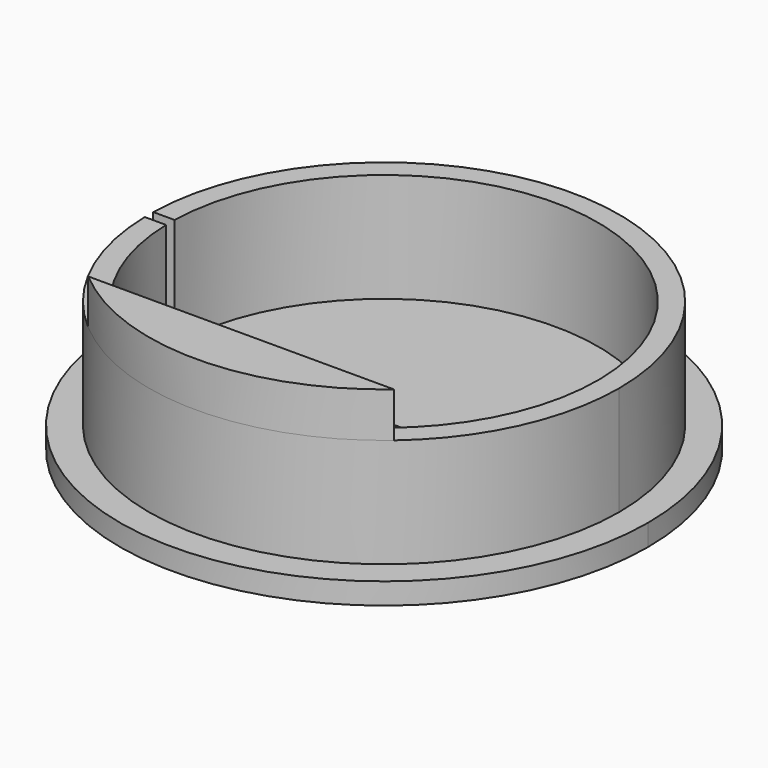
from build123d import *

# Parameters (mm, degrees)
F0_R     = 31.369
F1_DEPTH = 2.54
F2_R     = 27.94
F2_R_2   = 25.4
F3_DEPTH = 15.494
F5_DEPTH = 25.4
F7_DEPTH = 20.828


with BuildPart() as f1:
    # F0 (on Top) → F1 (new body)
    with BuildSketch(Plane.XY):
        Circle(F0_R)
    extrude(amount=F1_DEPTH)

    # F2 (on Top) → F3 (join)
    with BuildSketch(Plane.XY):
        Circle(F2_R)
        Circle(F2_R_2, mode=Mode.SUBTRACT)
    extrude(amount=F3_DEPTH)

    # F4 (on face) → F5 (cut)
    with BuildSketch(Plane.XY):
        with BuildLine():
            Line((0, -0.635), (0, 0))
            Line((0, 0), (0, 0.635))
            Line((0, 0.635), (-31.330898, 0.635))
            Line((-31.330898, 0.635), (-31.362572, 0.635))
            ThreePointArc((-31.362572, 0.635), (-31.369, -0.002537), (-31.362469, -0.640074))
            Line((-31.362469, -0.640074), (-31.013001, -0.635))
            Line((-31.013001, -0.635), (0, -0.635))
        make_face()
        with BuildLine():
            Line((-31.979989, -0.649039), (-31.362469, -0.640074))
            ThreePointArc((-31.362469, -0.640074), (-31.369, -0.002537), (-31.362572, 0.635))
            Line((-31.362572, 0.635), (-31.979989, 0.635))
            Line((-31.979989, 0.635), (-31.979989, -0.649039))
        make_face()
        Polygon((0, 0.635), (0, 0), (0, -0.635), (7.969206, -0.635), (7.969206, 0.635), (4.666724, 0.635), align=None)
    extrude(amount=F5_DEPTH, mode=Mode.SUBTRACT)

    # F6 (on Top) → F7 (join)
    with BuildSketch(Plane.XY):
        with BuildLine():
            Line((18.161, -21.232562), (-18.161, -21.232562))
            ThreePointArc((-18.161, -21.232562), (0, -27.94), (18.161, -21.232562))
        make_face()
    extrude(amount=F7_DEPTH)


solid = f1.part
